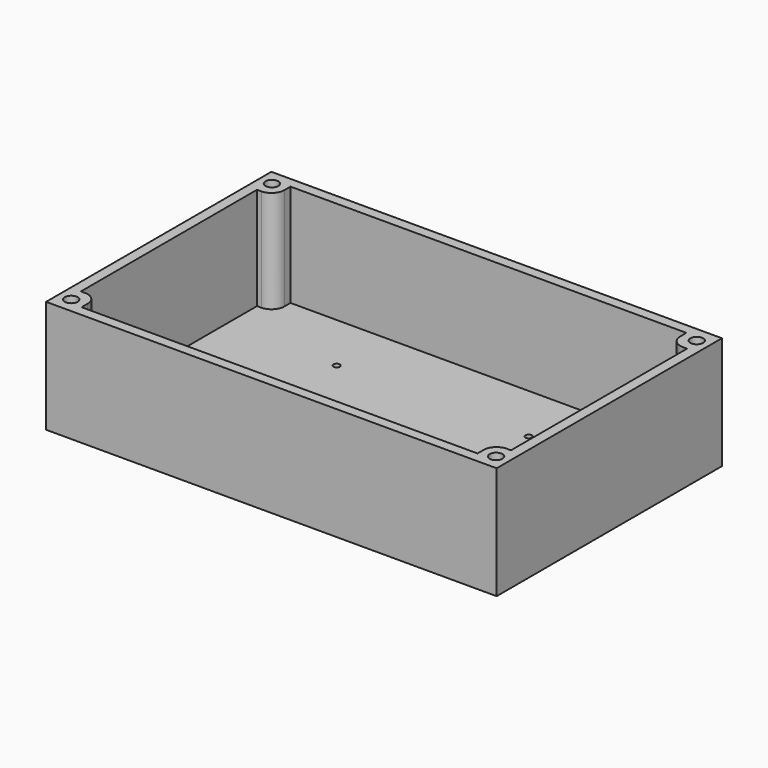
from build123d import *

# Parameters (mm, degrees)
F0_W     = 223.52
F0_H     = 139.7
F0_R     = 1.5875
F1_DEPTH = 5.08
F2_R     = 3.175
F3_DEPTH = 50.8


with BuildPart() as f1:
    # F0 (on Top) → F1 (new body)
    with BuildSketch(Plane.XY):
        with Locations((-125.343207, 69.85)):
            Rectangle(F0_W, F0_H)
        with Locations((-176.778207, 34.925)):
            Circle(F0_R, mode=Mode.SUBTRACT)
        with Locations((-81.528207, 34.925)):
            Circle(F0_R, mode=Mode.SUBTRACT)
        with Locations((-176.778207, 104.775)):
            Circle(F0_R, mode=Mode.SUBTRACT)
        with Locations((-81.528207, 104.775)):
            Circle(F0_R, mode=Mode.SUBTRACT)
    extrude(amount=F1_DEPTH)

    # F2 (on face) → F3 (join)
    with BuildSketch(Plane.XY.offset(5.08)):
        Polygon((-229.483207, 139.7), (-237.103207, 139.7), (-237.103207, 132.08), (-237.103207, 124.46), (-237.103207, 15.24), (-237.103207, 7.62), (-237.103207, 0), (-229.483207, 0), (-221.863207, 0), (-125.343207, 0), (-28.823207, 0), (-21.203207, 0), (-13.583207, 0), (-13.583207, 7.62), (-13.583207, 15.24), (-13.583207, 124.46), (-13.583207, 132.08), (-13.583207, 139.7), (-21.203207, 139.7), (-28.823207, 139.7), (-125.343207, 139.7), (-221.863207, 139.7), align=None)
        with Locations((-230.727843, 7.62)):
            Circle(F2_R, mode=Mode.SUBTRACT)
        with Locations((-19.958571, 7.62)):
            Circle(F2_R, mode=Mode.SUBTRACT)
        with Locations((-230.727843, 132.08)):
            Circle(F2_R, mode=Mode.SUBTRACT)
        with BuildLine():
            Line((-232.023207, 15.24), (-232.023207, 124.46))
            Line((-232.023207, 124.46), (-229.901726, 124.46))
            ThreePointArc((-229.901726, 124.46), (-225.411598, 126.319872), (-223.551726, 130.81))
            Line((-223.551726, 130.81), (-223.551726, 134.62))
            Line((-223.551726, 134.62), (-125.343207, 134.62))
            Line((-125.343207, 134.62), (-27.134688, 134.62))
            Line((-27.134688, 134.62), (-27.134688, 130.81))
            ThreePointArc((-27.134688, 130.81), (-25.274816, 126.319872), (-20.784688, 124.46))
            Line((-20.784688, 124.46), (-18.663207, 124.46))
            Line((-18.663207, 124.46), (-18.663207, 15.24))
            Line((-18.663207, 15.24), (-20.784688, 15.24))
            ThreePointArc((-20.784688, 15.24), (-25.274816, 13.380128), (-27.134688, 8.89))
            Line((-27.134688, 8.89), (-27.134688, 5.08))
            Line((-27.134688, 5.08), (-125.343207, 5.08))
            Line((-125.343207, 5.08), (-223.551726, 5.08))
            Line((-223.551726, 5.08), (-223.551726, 8.89))
            ThreePointArc((-223.551726, 8.89), (-225.411598, 13.380128), (-229.901726, 15.24))
            Line((-229.901726, 15.24), (-232.023207, 15.24))
        make_face(mode=Mode.SUBTRACT)
        with Locations((-19.958571, 132.08)):
            Circle(F2_R, mode=Mode.SUBTRACT)
    extrude(amount=F3_DEPTH)


solid = f1.part
